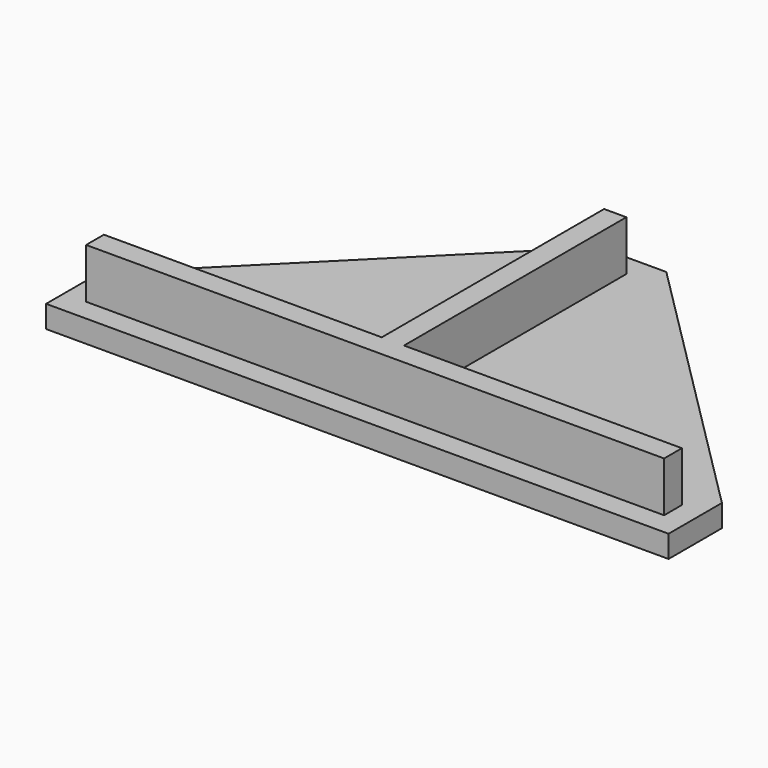
from build123d import *

# Parameters (mm, degrees)
F1_DEPTH = 1.8
F0_W     = 0.8
F0_H     = 0.8
F2_DEPTH = 0.8


with BuildPart() as f1:
    # F0 (on Top) → F1 (new body)
    with BuildSketch(Plane.XY):
        Polygon((-0.4, 10.4), (-0.4, 0.4), (-10.4, 0.4), (-10.4, -0.4), (-0.4, -0.4), (0.4, -0.4), (10.4, -0.4), (10.4, 0.4), (0.4, 0.4), (0.4, 10.4), align=None)
    extrude(amount=F1_DEPTH)

    # F0 (on Top) + F1_face (on face) → F2 (join)
    with BuildSketch(Plane.XY):
        Polygon((-1.2, 11.2), (-11.2, 1.2), (-1.2, 1.2), align=None)
        Polygon((1.2, 1.2), (11.2, 1.2), (1.2, 11.2), align=None)
        Polygon((-10.4, 0.4), (-0.4, 0.4), (-0.4, 10.4), (0.4, 10.4), (0.4, 0.4), (10.4, 0.4), (10.4, -0.4), (0.4, -0.4), (0.4, -1.2), (1.2, -1.2), (11.2, -1.2), (11.2, 1.2), (1.2, 1.2), (1.2, 11.2), (-1.2, 11.2), (-1.2, 1.2), (-11.2, 1.2), (-11.2, -1.2), (-1.2, -1.2), (-0.4, -1.2), (-0.4, -0.4), (-10.4, -0.4), align=None)
        Polygon((-0.4, 10.4), (-0.4, 0.4), (-10.4, 0.4), (-10.4, -0.4), (-0.4, -0.4), (0.4, -0.4), (10.4, -0.4), (10.4, 0.4), (0.4, 0.4), (0.4, 10.4), align=None)
        with Locations((0, -0.8)):
            Rectangle(F0_W, F0_H)
    with BuildSketch(Plane(origin=(0, 1.7532467532, 1.8), x_dir=(1, 0, 0), z_dir=(0, 0, 1))):
        Polygon((0.4, -1.3532467532), (0.4, 8.6467532468), (-0.4, 8.6467532468), (-0.4, -1.3532467532), (-10.4, -1.3532467532), (-10.4, -2.1532467532), (10.4, -2.1532467532), (10.4, -1.3532467532), align=None)
    extrude(amount=-F2_DEPTH)


solid = f1.part
